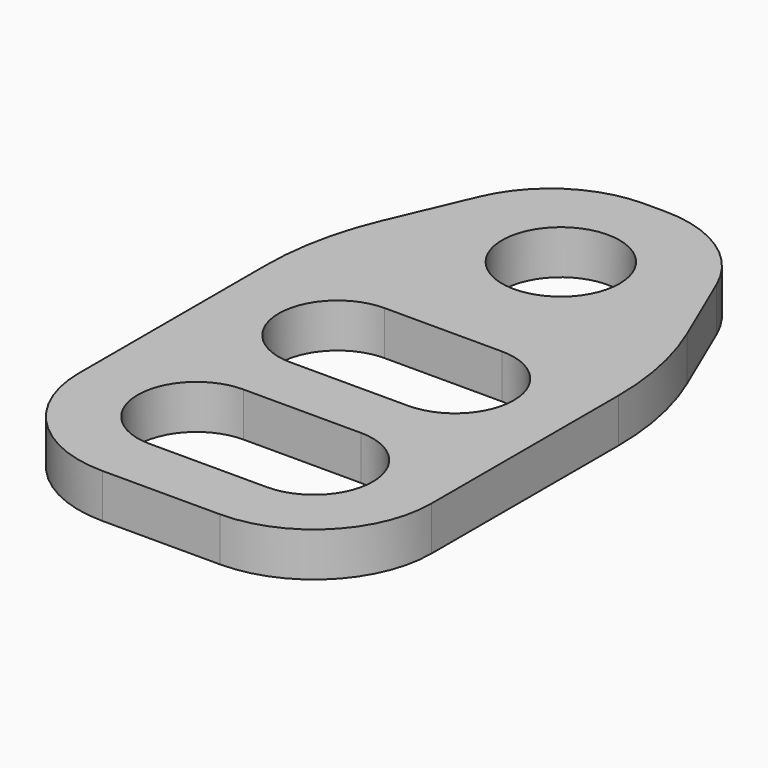
from build123d import *

# Parameters (mm, degrees)
F0_R     = 2
F1_DEPTH = 1.5
F2_R     = 4
F3_R     = 10
F4_R     = 4


with BuildPart() as f1:
    # F0 (on Top) → F1 (new body)
    with BuildSketch(Plane.XY):
        Polygon((6, 3.5), (3, 10.5), (-3, 10.5), (-6, 3.5), (-6, -10.5), (6, -10.5), align=None)
        with BuildLine():
            ThreePointArc((-2, -8.5), (-4, -6.5), (-2, -4.5))
            Line((-2, -4.5), (2, -4.5))
            ThreePointArc((2, -4.5), (3.414214, -5.085786), (4, -6.5))
            ThreePointArc((4, -6.5), (3.414214, -7.914214), (2, -8.5))
            Line((2, -8.5), (-2, -8.5))
        make_face(mode=Mode.SUBTRACT)
        with BuildLine():
            ThreePointArc((-2, -2.5), (-4, -0.5), (-2, 1.5))
            Line((-2, 1.5), (2, 1.5))
            ThreePointArc((2, 1.5), (3.414214, 0.914214), (4, -0.5))
            ThreePointArc((4, -0.5), (3.414214, -1.914214), (2, -2.5))
            Line((2, -2.5), (-2, -2.5))
        make_face(mode=Mode.SUBTRACT)
        with Locations((0, 6.5)):
            Circle(F0_R, mode=Mode.SUBTRACT)
    extrude(amount=F1_DEPTH)

    # F2
    f2_edges = [f1.edges().sort_by_distance(p)[0] for p in [
        (3, 10.5, 0.75),
        (-3, 10.5, 0.75),
    ]]
    fillet(f2_edges, radius=F2_R)

    # F3
    f3_edges = [f1.edges().sort_by_distance(p)[0] for p in [
        (-6, 3.5, 0.75),
        (6, 3.5, 0.75),
    ]]
    fillet(f3_edges, radius=F3_R)

    # F4
    f4_edges = [f1.edges().sort_by_distance(p)[0] for p in [
        (-6, -10.5, 0.75),
        (6, -10.5, 0.75),
    ]]
    fillet(f4_edges, radius=F4_R)


solid = f1.part
